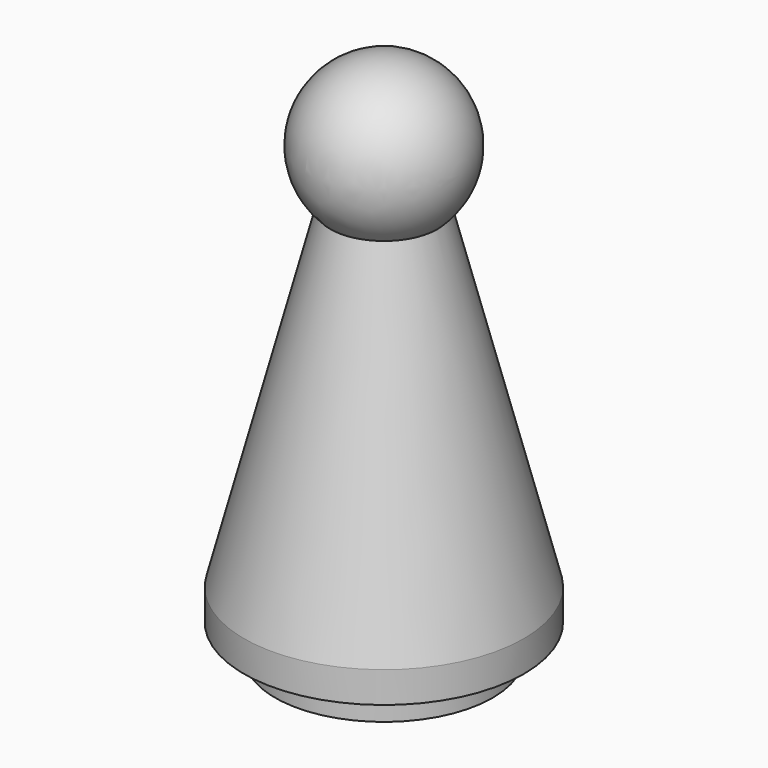
from build123d import *

# Parameters (mm, degrees)
F0_R      = 7
F1_DEPTH  = 2
F2_R      = 9
F3_DEPTH  = 2
F3_FACE_R = 9
F5_R      = 2.5


with BuildPart() as f1:
    # F0 (on Top) → F1 (new body)
    with BuildSketch(Plane.XY):
        Circle(F0_R)
    extrude(amount=F1_DEPTH)

    # F2 (on face) → F3 (join)
    with BuildSketch(Plane.XY.offset(2)):
        Circle(F2_R)
    extrude(amount=F3_DEPTH)

    # F3_face (on face) → F6 section 0
    with BuildSketch(Plane.XY.offset(4)):
        Circle(F3_FACE_R)
    # F5 (on offset) → F6 section 1
    with BuildSketch(Plane.XY.offset(29)):
        Circle(F5_R)
    loft()

    # F7 (on offset) → F8 (revolve)
    with BuildSketch(Plane.XY.offset(29)):
        with BuildLine():
            Line((5, 0), (-5, 0))
            ThreePointArc((-5, 0), (0, -5), (5, 0))
        make_face()
    revolve(axis=Axis((0, 0, 29), (1, 0, 0)))


solid = f1.part
